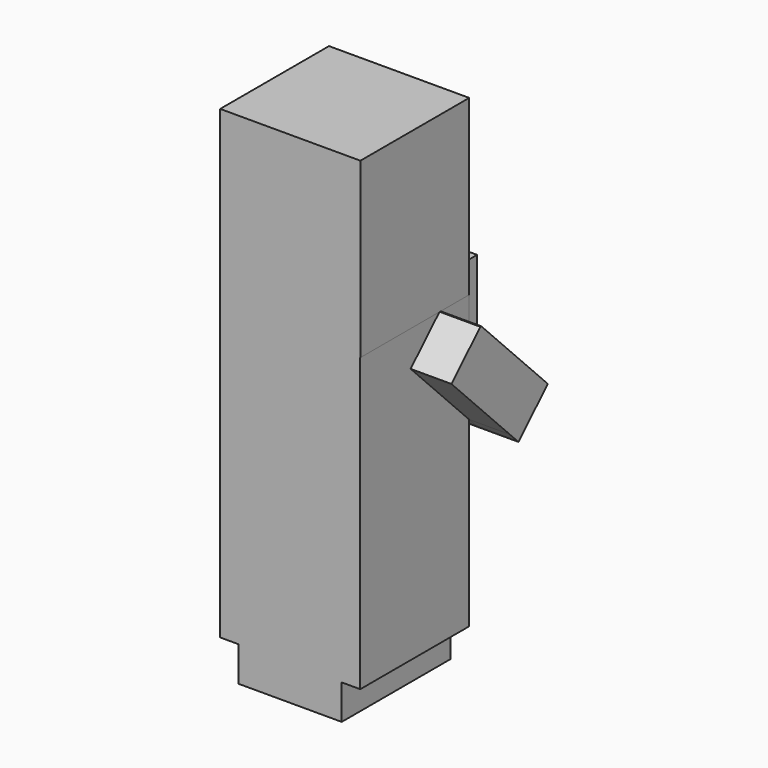
from build123d import *

# Parameters (mm, degrees)
F0_W      = 9.647341
F0_H      = 3.250734
F2_DEPTH  = 12.7
F4_DEPTH  = 1.778
F5_DEPTH  = 0.508
F1_W      = 1.800112
F1_H      = 1.303531
F6_DEPTH  = 0.381
F1_W_2    = 1.769075
F7_DEPTH  = 0.381
F9_DEPTH  = 3.81
F10_DEPTH = 16.51
F12_DEPTH = 1.016
F13_DEPTH = 0.762


with BuildPart() as f2:
    # F0 (on Front) → F2 (new body)
    with BuildSketch(Plane.XZ):
        with Locations((4.82367, 1.625367)):
            Rectangle(F0_W, F0_H)
        Polygon((-1.701648, 3.250734), (0, 3.250734), (9.647341, 3.250734), (11.377569, 3.250734), (11.377569, 30.514956), (11.391672, 30.514956), (11.391672, 46.697617), (-1.701648, 46.697617), (-1.701648, 30.514956), align=None)
    extrude(amount=F2_DEPTH)

    # F1 (on face) → F4 (join)
    with BuildSketch(Plane.XZ):
        Polygon((3.710789, 33.669334), (3.710789, 30.938132), (6.255776, 30.938132), (6.255776, 33.669334), (6.255776, 34.972865), (6.255776, 36.772978), (3.710789, 36.772978), (3.710789, 34.972865), align=None)
    extrude(amount=-F4_DEPTH)

    # F1 (on face) → F5 (join)
    with BuildSketch(Plane.XZ):
        Polygon((1.855394, 38.511015), (3.710789, 38.511015), (6.255776, 38.511015), (8.024851, 38.511015), (9.793927, 38.511015), (9.793927, 40.124908), (0, 40.124908), (0, 38.511015), align=None)
    extrude(amount=-F5_DEPTH)

    # F1 (on face) → F6 (join)
    with BuildSketch(Plane.XZ):
        with Locations((2.810733, 34.3211)):
            Rectangle(F1_W, F1_H)
    extrude(amount=-F6_DEPTH)

    # F1 (on face) → F7 (join)
    with BuildSketch(Plane.XZ):
        with Locations((7.140313, 34.3211)):
            Rectangle(F1_W_2, F1_H)
    extrude(amount=-F7_DEPTH)

    # F8 (on face) → F9 (join)
    with BuildSketch(Plane.YZ.offset(11.377569)):
        Polygon((0, 27.125444), (-3.33655, 30.514956), (-3.445342, 30.514956), (-6.820974, 27.192068), (0, 20.262824), align=None)
        Polygon((4.431088, 22.624021), (0, 27.125444), (0, 20.262824), (1.000203, 19.246745), align=None)
    extrude(amount=F9_DEPTH)

    # F8 (on face) → F10 (join)
    with BuildSketch(Plane.YZ.offset(11.377569)):
        Polygon((4.431088, 22.624021), (-3.39009, 30.569345), (-6.820974, 27.192068), (1.000203, 19.246745), align=None)
    extrude(amount=-F10_DEPTH)

    # F11 (on face) → F12 (join)
    with BuildSketch(Plane.XZ):
        Polygon((0, 33.361174), (-1.701648, 33.361174), (-1.701648, 30.514956), (-1.701648, 27.172441), (11.316204, 27.172441), (11.316204, 33.361174), (10.014145, 33.361174), (10.014145, 32.268375), (10.014145, 31.780105), (8.293568, 31.780105), (8.293568, 30.268786), (6.968258, 30.268786), (6.968258, 28.431954), (3.108585, 28.431954), (3.108585, 30.268786), (1.899531, 30.268786), (1.899531, 31.780105), (0, 31.780105), (0, 32.268375), align=None)
    extrude(amount=-F12_DEPTH)

    # F11 (on face) → F13 (join)
    with BuildSketch(Plane.XZ):
        Polygon((2.341301, 32.268375), (0, 32.268375), (0, 31.780105), (1.899531, 31.780105), (1.899531, 30.268786), (3.108585, 30.268786), (3.108585, 28.431954), (6.968258, 28.431954), (6.968258, 30.268786), (8.293568, 30.268786), (8.293568, 31.780105), (10.014145, 31.780105), (10.014145, 32.268375), (7.8983, 32.268375), (7.8983, 30.640803), (6.34048, 30.640803), (6.34048, 29.361997), (3.66661, 29.361997), (3.66661, 30.617552), (2.341301, 30.617552), align=None)
    extrude(amount=-F13_DEPTH)


solid = f2.part
